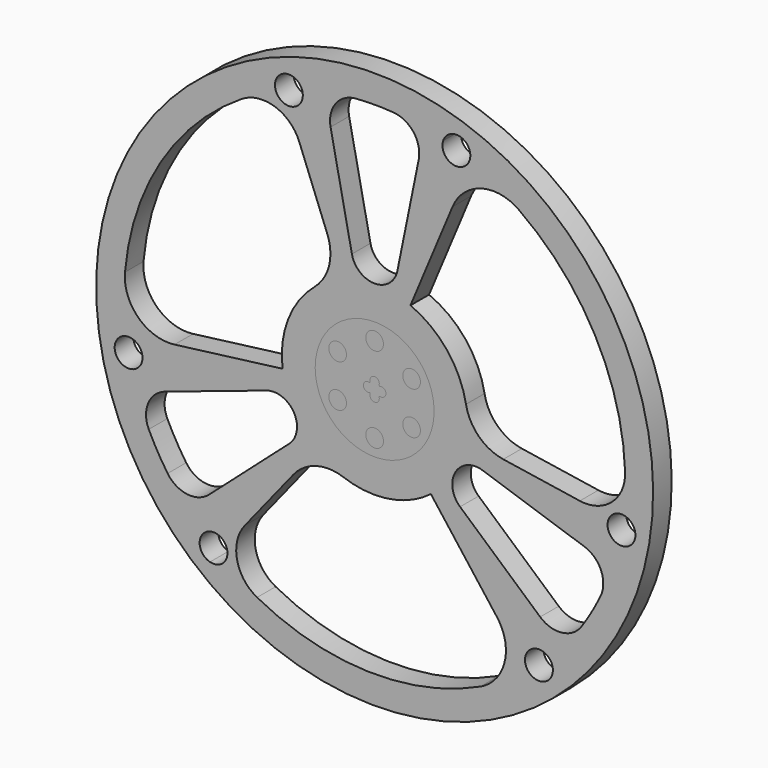
from build123d import *

# Parameters (mm, degrees)
F2_DEPTH = 127
F1_R     = 48.3457667833


with BuildPart() as f2:
    # F0 (on Front) → F2 (new body)
    with BuildSketch(Plane.XZ):
        with BuildLine():
            ThreePointArc((923.3816135664, -1212.4118094639), (1365.6151689029, -676.5140135004), (1524, 0))
            ThreePointArc((1524, 0), (-659.6158227538, 1373.8569672178), (-953.0117668935, -1189.2621965582))
            Line((-953.0117668935, -1189.2621965582), (-901.06792843, -1124.4415452559))
            ThreePointArc((-901.06792843, -1124.4415452559), (-954.5101555684, -1072.7918617611), (-938.5520375408, -1000.2032957494))
            ThreePointArc((-938.5520375408, -1000.2032957494), (-1041.879061799, -892.0619824793), (-1132.816748196, -773.3128571327))
            ThreePointArc((-1132.816748196, -773.3128571327), (-1187.8404438307, -685.8), (-1236.116953448, -594.3916532039))
            ThreePointArc((-1236.116953448, -594.3916532039), (-1289.592814675, -467.158358952), (-1330.0115812275, -335.1950981158))
            ThreePointArc((-1330.0115812275, -335.1950981158), (-1421.3835171304, -275.3066240214), (-1358.9800432853, -185.6335151645))
            ThreePointArc((-1358.9800432853, -185.6335151645), (-1371.2069005805, -32.8358919538), (-1366.3078643285, 120.3718400376))
            ThreePointArc((-1366.3078643285, 120.3718400376), (-1169.4457180172, 716.7170101311), (-727.4275903268, 1162.8136827675))
            ThreePointArc((-727.4275903268, 1162.8136827675), (-545.4318092729, 1184.6606808968), (-412.5193238552, 1058.4306255663))
            Line((-412.5193238552, 1058.4306255663), (-258.6245941259, 663.5718016536))
            ThreePointArc((-258.6245941259, 663.5718016536), (-249.3840923253, 514.3359426127), (-328.5229608551, 387.4747271643))
            ThreePointArc((-328.5229608551, 387.4747271643), (-77.6568825305, 502.0292905754), (196.0962066869, 468.6259464893))
            Line((196.0962066869, 468.6259464893), (274.916742518, 656.989346428))
            Line((274.916742518, 656.989346428), (426.2451457015, 1018.6302846731))
            ThreePointArc((426.2451457015, 1018.6302846731), (581.8223651272, 1157.2989954769), (787.3990035371, 1123.0713998802))
            ThreePointArc((787.3990035371, 1123.0713998802), (1205.4179971066, 654.4111950843), (1370.7399843082, 48.5639312529))
            ThreePointArc((1370.7399843082, 48.5639312529), (1370.4056079427, -57.2278753689), (1361.918510577, -162.6792259253))
            ThreePointArc((1361.918510577, -162.6792259253), (1408.4670288991, -188.2721722387), (1426.9825371601, -238.0611209403))
            ThreePointArc((1426.9825371601, -238.0611209403), (1398.9499264628, -297.1063799181), (1335.4774818383, -312.7082594092))
            ThreePointArc((1335.4774818383, -312.7082594092), (1293.4878694769, -456.2627439493), (1236.116953448, -594.3916532039))
            ThreePointArc((1236.116953448, -594.3916532039), (1187.8404438307, -685.8), (1132.816748196, -773.3128571327))
            ThreePointArc((1132.816748196, -773.3128571327), (1049.3674137801, -883.2409585704), (955.293260806, -984.2262676126))
            ThreePointArc((955.293260806, -984.2262676126), (970.1669806175, -1008.1077784909), (975.3609051769, -1035.7587685371))
            ThreePointArc((975.3609051769, -1035.7587685371), (924.8288343597, -1107.5055274288), (840.2533615689, -1084.0944831389))
            ThreePointArc((840.2533615689, -1084.0944831389), (835.655896823, -1087.6423043009), (831.0434522097, -1091.1706285175))
            Line((831.0434522097, -1091.1706285175), (923.3816135664, -1212.4118094639))
        make_face()
        with BuildLine():
            ThreePointArc((124.4504374868, 611.6934428334), (0, 510.0131705043), (-124.4504374868, 611.6934428334))
            Line((-124.4504374868, 611.6934428334), (-241.1629296527, 1185.3536693162))
            ThreePointArc((-241.1629296527, 1185.3536693162), (-213.3896320154, 1307.6458254551), (-103.300205252, 1367.7045103365))
            ThreePointArc((-103.300205252, 1367.7045103365), (0, 1371.6), (103.300205252, 1367.7045103365))
            ThreePointArc((103.300205252, 1367.7045103365), (213.3896320154, 1307.6458254551), (241.1629296527, 1185.3536693162))
            Line((241.1629296527, 1185.3536693162), (124.4504374868, 611.6934428334))
        make_face(mode=Mode.SUBTRACT)
        with BuildLine():
            ThreePointArc((-393.0242901923, 1288.8425526392), (-454.9480416585, 1213.991843038), (-540.0749129692, 1260.7956410066))
            ThreePointArc((-540.0749129692, 1260.7956410066), (-495.2923063141, 1360.4449166747), (-396.9254442975, 1312.9115551587))
            ThreePointArc((-396.9254442975, 1312.9115551587), (-394.0059012931, 1301.0341059204), (-393.0242901923, 1288.8425526392))
        make_face(mode=Mode.SUBTRACT)
        with BuildLine():
            ThreePointArc((523.6129531571, 1296.5755702416), (522.381433588, 1282.9312695306), (518.7266817164, 1269.7279983034))
            ThreePointArc((518.7266817164, 1269.7279983034), (422.5566779817, 1224.543594117), (374.7183204215, 1319.4213657284))
            ThreePointArc((374.7183204215, 1319.4213657284), (458.9695310577, 1371.8941304192), (523.6129531571, 1296.5755702416))
        make_face(mode=Mode.SUBTRACT)
        with BuildLine():
            Line((-901.06792843, -1124.4415452559), (-953.0117668935, -1189.2621965582))
            ThreePointArc((-953.0117668935, -1189.2621965582), (-513.9044298634, -1434.7397802273), (-18.8006021438, -1523.8840301542))
            Line((-18.8006021438, -1523.8840301542), (-16.9205419294, -1371.4956271388))
            ThreePointArc((-16.9205419294, -1371.4956271388), (-339.6856295851, -1328.8717895468), (-643.3123939814, -1211.3776140205))
            ThreePointArc((-643.3123939814, -1211.3776140205), (-753.2303398848, -1064.6881433109), (-710.3681479563, -886.4675267937))
            Line((-710.3681479563, -886.4675267937), (-445.3577404041, -555.7613693833))
            ThreePointArc((-445.3577404041, -555.7613693833), (-320.7359462194, -473.1409305597), (-171.3014766211, -478.2465934091))
            ThreePointArc((-171.3014766211, -478.2465934091), (-247.8856351667, -443.4148304669), (-317.6705889645, -396.4207321861))
            ThreePointArc((-317.6705889645, -396.4207321861), (-443.0408612023, -248.5534053381), (-503.8900778757, -64.488676668))
            Line((-503.8900778757, -64.488676668), (-706.4278352814, -90.4097902677))
            Line((-706.4278352814, -90.4097902677), (-1095.2822764419, -140.1760179192))
            ThreePointArc((-1095.2822764419, -140.1760179192), (-1293.1615124208, -74.7765490483), (-1366.3078643285, 120.3718400376))
            ThreePointArc((-1366.3078643285, 120.3718400376), (-1371.2069005805, -32.8358919538), (-1358.9800432853, -185.6335151645))
            ThreePointArc((-1358.9800432853, -185.6335151645), (-1297.273307086, -202.7143435238), (-1270.373858334, -260.8168017045))
            ThreePointArc((-1270.373858334, -260.8168017045), (-1287.124360794, -308.484371836), (-1330.0115812275, -335.1950981158))
            ThreePointArc((-1330.0115812275, -335.1950981158), (-1289.592814675, -467.158358952), (-1236.116953448, -594.3916532039))
            ThreePointArc((-1236.116953448, -594.3916532038), (-1239.1493200045, -469.022070498), (-1147.1278549233, -383.8236111278))
            Line((-1147.1278549233, -383.8236111278), (-591.9672795655, -198.069481041))
            ThreePointArc((-591.9672795655, -198.069481041), (-441.6843619214, -255.0065852522), (-467.5168420786, -413.6239617924))
            Line((-467.5168420786, -413.6239617924), (-905.9649252706, -801.5300581884))
            ThreePointArc((-905.9649252706, -801.5300581884), (-1025.7596879891, -838.6237549571), (-1132.816748196, -773.3128571327))
            ThreePointArc((-1132.816748196, -773.3128571327), (-1041.879061799, -892.0619824793), (-938.5520375408, -1000.2032957494))
            ThreePointArc((-938.5520375408, -1000.2032957494), (-854.5072473713, -979.5446194398), (-805.3582469678, -1050.7814316989))
            ThreePointArc((-805.3582469678, -1050.7814316989), (-835.0835104296, -1111.1680102053), (-901.06792843, -1124.4415452559))
        make_face()
        with BuildLine():
            ThreePointArc((-18.8006021438, -1523.8840301542), (478.3517927446, -1446.9815349126), (923.3816135664, -1212.4118094639))
            Line((923.3816135664, -1212.4118094639), (831.0434522097, -1091.1706285175))
            ThreePointArc((831.0434522097, -1091.1706285175), (835.655896823, -1087.6423043009), (840.2533615689, -1084.0944831389))
            ThreePointArc((840.2533615689, -1084.0944831389), (849.207521556, -978.2166147295), (955.293260806, -984.2262676126))
            ThreePointArc((955.293260806, -984.2262676126), (1049.3674137801, -883.2409585704), (1132.816748196, -773.3128571327))
            ThreePointArc((1132.816748196, -773.3128571327), (1025.7596879891, -838.6237549571), (905.9649252706, -801.5300581884))
            Line((905.9649252706, -801.5300581884), (467.5168420786, -413.6239617924))
            ThreePointArc((467.5168420786, -413.6239617924), (441.6843619214, -255.0065852522), (591.9672795655, -198.069481041))
            Line((591.9672795655, -198.069481041), (1147.1278549233, -383.8236111278))
            ThreePointArc((1147.1278549233, -383.8236111278), (1239.1493200045, -469.022070498), (1236.116953448, -594.3916532038))
            ThreePointArc((1236.116953448, -594.3916532039), (1293.4878694769, -456.2627439493), (1335.4774818383, -312.7082594092))
            ThreePointArc((1335.4774818383, -312.7082594092), (1275.7390628734, -224.8355031103), (1361.918510577, -162.6792259253))
            ThreePointArc((1361.918510577, -162.6792259253), (1370.4056079427, -57.2278753689), (1370.7399843082, 48.5639312529))
            ThreePointArc((1370.7399843082, 48.5639312529), (1298.6621491577, -119.972537586), (1122.8874718115, -171.9630987726))
            Line((1122.8874718115, -171.9630987726), (703.98233453, -107.8104322703))
            ThreePointArc((703.98233453, -107.8104322703), (570.1200385446, -41.1950120529), (499.8244374762, 90.7718662449))
            ThreePointArc((499.8244374762, 90.7718662449), (505.9519810407, 45.5696486824), (508, 0))
            ThreePointArc((508, 0), (455.205056301, -225.5046711668), (307.7938711888, -404.1372698213))
            Line((307.7938711888, -404.1372698213), (431.5110927634, -566.5795561603))
            Line((431.5110927634, -566.5795561603), (669.0371307403, -878.4542667539))
            ThreePointArc((669.0371307403, -878.4542667539), (711.3391472936, -1082.5224464286), (578.9088607914, -1243.4432399177))
            ThreePointArc((578.9088607914, -1243.4432399177), (288.1962371416, -1340.9807936348), (-16.9205419294, -1371.4956271388))
            Line((-16.9205419294, -1371.4956271388), (-18.8006021438, -1523.8840301542))
        make_face()
        with BuildLine():
            Line((0, 0), (-6.2668673813, -507.9613433847))
            ThreePointArc((-6.2668673813, -507.9613433847), (77.6568825305, -502.0292905754), (159.4505975815, -482.3271783042))
            ThreePointArc((159.4505975815, -482.3271783042), (236.8707745718, -449.3954118076), (307.7938711888, -404.1372698213))
            Line((307.7938711888, -404.1372698213), (0, 0))
        make_face()
        with BuildLine():
            ThreePointArc((-171.3014766211, -478.2465934091), (-90.0187246603, -499.9606276604), (-6.2668673813, -507.9613433847))
            Line((-6.2668673813, -507.9613433847), (0, 0))
            Line((0, 0), (-317.6705889645, -396.4207321861))
            ThreePointArc((-317.6705889645, -396.4207321861), (-247.8856351667, -443.4148304669), (-171.3014766211, -478.2465934091))
        make_face()
        with BuildLine():
            Line((-317.6705889645, -396.4207321861), (0, 0))
            Line((0, 0), (-503.8900778757, -64.488676668))
            ThreePointArc((-503.8900778757, -64.488676668), (-443.0408612023, -248.5534053381), (-317.6705889645, -396.4207321861))
        make_face()
        with BuildLine():
            Line((-503.8900778757, -64.488676668), (0, 0))
            Line((0, 0), (196.0962066869, 468.6259464893))
            ThreePointArc((196.0962066869, 468.6259464893), (-77.6568825305, 502.0292905754), (-328.5229608551, 387.4747271643))
            ThreePointArc((-328.5229608551, 387.4747271643), (-436.773993821, 259.4079380467), (-497.4328881379, 103.0753209979))
            ThreePointArc((-497.4328881379, 103.0753209979), (-507.6232302555, 19.5615977105), (-503.8900778757, -64.488676668))
        make_face()
        with BuildLine():
            Line((196.0962066869, 468.6259464893), (0, 0))
            Line((0, 0), (307.7938711888, -404.1372698213))
            ThreePointArc((307.7938711888, -404.1372698213), (455.205056301, -225.5046711668), (508, 0))
            ThreePointArc((508, 0), (505.9519810407, 45.5696486824), (499.8244374762, 90.7718662449))
            ThreePointArc((499.8244374762, 90.7718662449), (443.0408612023, 248.553405338), (337.9822905563, 379.2518573063))
            ThreePointArc((337.9822905563, 379.2518573063), (270.7524556836, 429.8338140971), (196.0962066869, 468.6259464893))
        make_face()
    extrude(amount=F2_DEPTH)


with BuildPart() as f2b:
    # F1 (on face) → F2, piece 2 (new body)
    with BuildSketch(Plane.XZ):
        with BuildLine():
            ThreePointArc((-23.7994561642, -27.4777095143), (-25.7044610318, -25.7044610318), (-27.4777095143, -23.7994561642))
            ThreePointArc((-27.4777095143, -23.7994561642), (-47.4444941601, -22.849674868), (-60.5409838541, -7.7481341752))
            Line((-60.5409838541, -7.7481341752), (-322.7479060277, -41.3058051169))
            ThreePointArc((-322.7479060277, -41.3058051169), (20.6948022707, -324.721581575), (325.3803626244, 0))
            ThreePointArc((325.3803626244, 0), (270.8697376657, 180.2830152802), (125.6020764588, 300.1607881967))
            Line((125.6020764588, 300.1607881967), (21.1174302498, 50.465921322))
            ThreePointArc((21.1174302498, 50.465921322), (25.2288751594, 39.2950406587), (23.7994561642, 27.4777095143))
            ThreePointArc((23.7994561642, 27.4777095143), (25.7044610318, 25.7044610318), (27.4777095143, 23.7994561642))
            ThreePointArc((27.4777095143, 23.7994561642), (61.7515974046, 0), (27.4777095143, -23.7994561642))
            ThreePointArc((27.4777095143, -23.7994561642), (25.7044610318, -25.7044610318), (23.7994561642, -27.4777095143))
            ThreePointArc((23.7994561642, -27.4777095143), (0, -61.7515974046), (-23.7994561642, -27.4777095143))
        make_face()
        with Locations((-202.4740758161, -116.8984621763)):
            Circle(F1_R, mode=Mode.SUBTRACT)
        with Locations((0, -233.7969243526)):
            Circle(F1_R, mode=Mode.SUBTRACT)
        with Locations((202.4740758161, -116.8984621763)):
            Circle(F1_R, mode=Mode.SUBTRACT)
        with Locations((202.4740758161, 116.8984621763)):
            Circle(F1_R, mode=Mode.SUBTRACT)
        with BuildLine():
            Line((-322.7479060277, -41.3058051169), (-60.5409838541, -7.7481341752))
            ThreePointArc((-60.5409838541, -7.7481341752), (-53.885956192, 18.3767859517), (-27.4777095143, 23.7994561642))
            ThreePointArc((-27.4777095143, 23.7994561642), (-25.7044610318, 25.7044610318), (-23.7994561642, 27.4777095143))
            ThreePointArc((-23.7994561642, 27.4777095143), (-11.5720692307, 58.9623738999), (21.1174302498, 50.465921322))
            Line((21.1174302498, 50.465921322), (125.6020764588, 300.1607881967))
            ThreePointArc((125.6020764588, 300.1607881967), (-197.1458295689, 258.8549830797), (-322.7479060277, -41.3058051169))
        make_face()
        with Locations((-202.4740758161, 116.8984621763)):
            Circle(F1_R, mode=Mode.SUBTRACT)
        with Locations((0, 233.7969243526)):
            Circle(F1_R, mode=Mode.SUBTRACT)
    extrude(amount=F2_DEPTH)


solid = Compound([f2.part, f2b.part])
